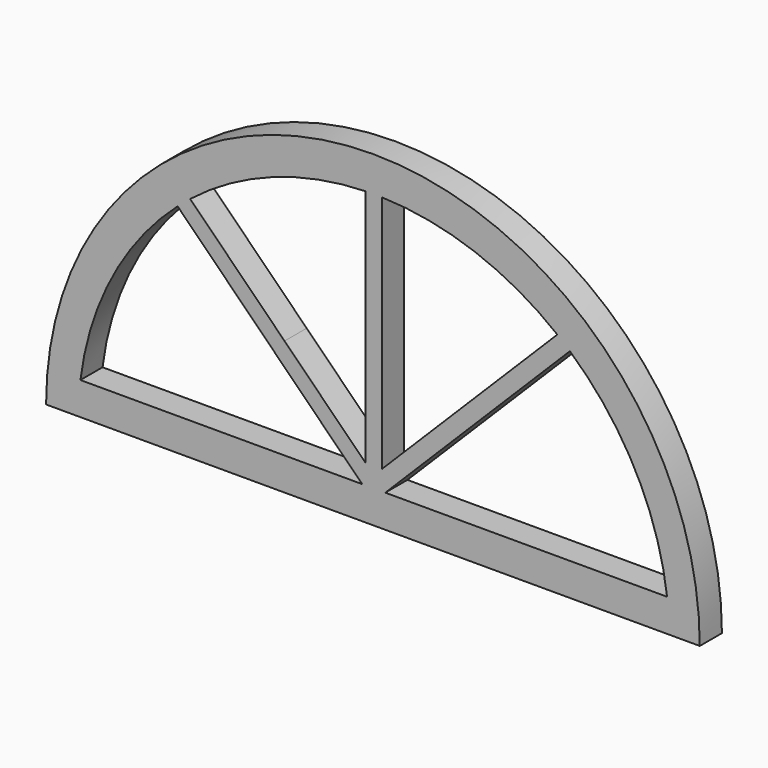
from build123d import *

# Parameters (mm, degrees)
F1_DEPTH = 25.4


with BuildPart() as f1:
    # F0 (on Front) → F1 (new body)
    with BuildSketch(Plane.XZ):
        with BuildLine():
            ThreePointArc((568.496231, 13.210223), (268.496231, 313.210223), (-31.503769, 13.210223))
            Line((-31.503769, 13.210223), (0, 13.210223))
            Line((0, 13.210223), (568.496231, 13.210223))
        make_face()
        with BuildLine():
            Line((258.641514, 43.210223), (0, 43.210223))
            ThreePointArc((0, 43.210223), (29.161048, 136.057775), (89.208348, 212.643389))
            Line((89.208348, 212.643389), (176.772401, 125.079336))
            Line((176.772401, 125.079336), (258.641514, 43.210223))
        make_face(mode=Mode.SUBTRACT)
        with BuildLine():
            ThreePointArc((449.287884, 212.643389), (509.335183, 136.057775), (538.496231, 43.210223))
            Line((538.496231, 43.210223), (279.854717, 43.210223))
            Line((279.854717, 43.210223), (376.854555, 140.210061))
            Line((376.854555, 140.210061), (449.287884, 212.643389))
        make_face(mode=Mode.SUBTRACT)
        with BuildLine():
            Line((261.748116, 162.095649), (261.748116, 61.302616))
            Line((261.748116, 61.302616), (187.379003, 135.685937))
            Line((187.379003, 135.685937), (100.746549, 222.318391))
            ThreePointArc((100.746549, 222.318391), (176.504236, 264.638519), (261.748116, 280.8774))
            Line((261.748116, 280.8774), (261.748116, 162.095649))
        make_face(mode=Mode.SUBTRACT)
        with BuildLine():
            ThreePointArc((276.748116, 280.8774), (361.997227, 264.636616), (437.758409, 222.311476))
            Line((437.758409, 222.311476), (366.663021, 151.216088))
            Line((366.663021, 151.216088), (276.748116, 61.301183))
            Line((276.748116, 61.301183), (276.748116, 162.095649))
            Line((276.748116, 162.095649), (276.748116, 280.8774))
        make_face(mode=Mode.SUBTRACT)
    extrude(amount=F1_DEPTH)


solid = f1.part
